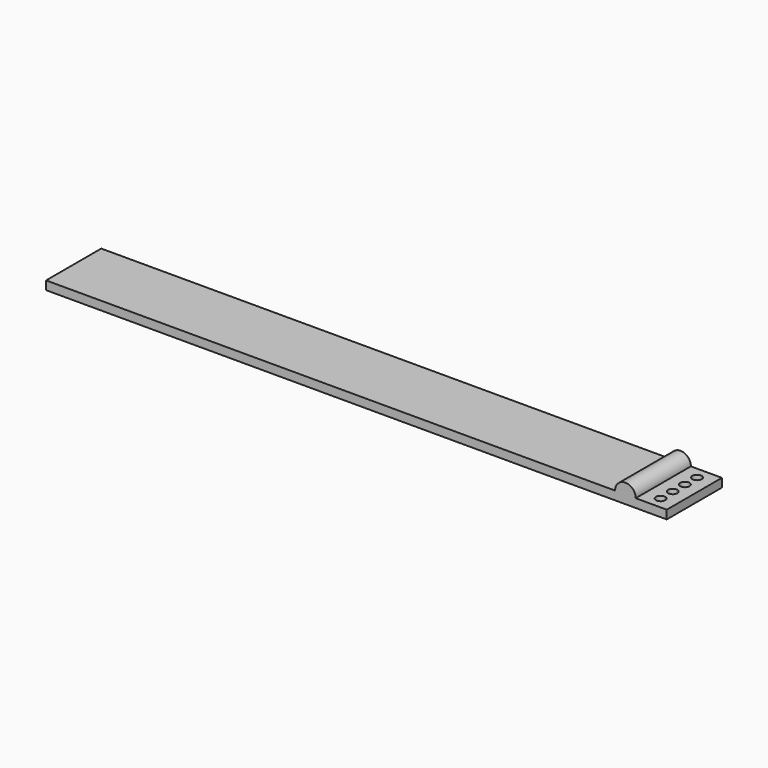
from build123d import *

# Parameters (mm, degrees)
F0_W     = 457.2
F0_H     = 50.8
F1_DEPTH = 6.35
F3_DEPTH = 50.8
F4_R     = 3.429
F5_DEPTH = 25.4


with BuildPart() as f1:
    # F0 (on Top) → F1 (new body)
    with BuildSketch(Plane.XY):
        Rectangle(F0_W, F0_H)
    extrude(amount=F1_DEPTH)

    # F2 (on face) → F3 (join)
    with BuildSketch(Plane.XZ.offset(25.4)):
        with BuildLine():
            Line((190.5, 6.35), (205.74, 6.35))
            ThreePointArc((205.74, 6.35), (198.12, 13.97), (190.5, 6.35))
        make_face()
    extrude(amount=-F3_DEPTH)

    # F4 (on face) → F5 (cut)
    with BuildSketch(Plane.XY.offset(6.35)):
        with Locations((217.17, -16.764)):
            Circle(F4_R)
        with Locations((217.17, -5.588)):
            Circle(F4_R)
        with Locations((217.17, 5.588)):
            Circle(F4_R)
        with Locations((217.17, 16.764)):
            Circle(F4_R)
    extrude(amount=-F5_DEPTH, mode=Mode.SUBTRACT)


solid = f1.part
